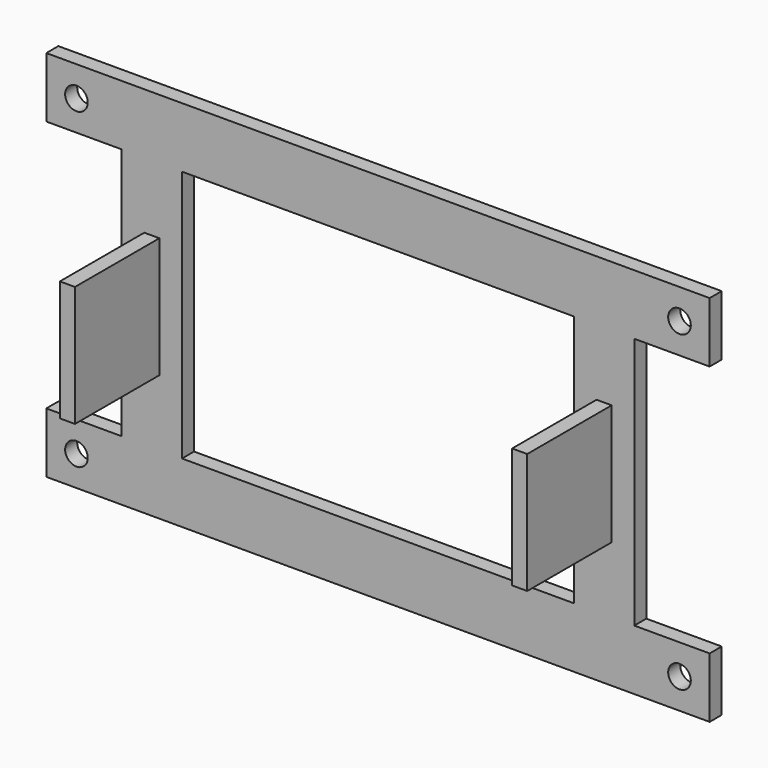
from build123d import *

# Parameters (mm, degrees)
F0_W     = 50.8
F0_H     = 212.725
F0_W_2   = 12.7
F0_H_2   = 101.6
F1_DEPTH = 12.7
F2_D     = 19.05
F3_DEPTH = 101.6


with BuildPart() as f1:
    # F0 (on Front) → F1 (new body)
    with BuildSketch(Plane.XZ):
        Polygon((215.9, 50.5107097983), (279.4, 50.5107097983), (279.4, 101.3107097983), (-279.4, 101.3107097983), (-279.4, 50.5107097983), (-215.9, 50.5107097983), (-165.1, 50.5107097983), (165.1, 50.5107097983), align=None)
        with Locations((190.5, -55.8517902017)):
            Rectangle(F0_W, F0_H)
        with Locations((190.5, -55.8517902017)):
            Rectangle(F0_W_2, F0_H_2, mode=Mode.SUBTRACT)
        Polygon((279.4, -162.2142902017), (215.9, -162.2142902017), (165.1, -162.2142902017), (-165.1, -162.2142902017), (-215.9, -162.2142902017), (-279.4, -162.2142902017), (-279.4, -213.0142902017), (279.4, -213.0142902017), align=None)
        with Locations((-190.5, -55.8517902017)):
            Rectangle(F0_W, F0_H)
        with Locations((-190.5, -55.8517902017)):
            Rectangle(F0_W_2, F0_H_2, mode=Mode.SUBTRACT)
    extrude(amount=F1_DEPTH)

    # F2 (through all)
    with Locations(Plane(origin=(0, 0, 0), x_dir=(1, 0, 0), z_dir=(0, 1, 0))):
        with Locations((-254, -75.9107097983), (254, -75.9107097983), (254, 187.6142902017), (-254, 187.6142902017)):
            Hole(F2_D / 2)


with BuildPart() as f3:
    # F0 (on Front) → F3 (new body)
    with BuildSketch(Plane.XZ):
        with Locations((190.5, -55.8517902017)):
            Rectangle(F0_W_2, F0_H_2)
    extrude(amount=F3_DEPTH)


with BuildPart() as f3b:
    # F0 (on Front) → F3, piece 2 (new body)
    with BuildSketch(Plane.XZ):
        with Locations((-190.5, -55.8517902017)):
            Rectangle(F0_W_2, F0_H_2)
    extrude(amount=F3_DEPTH)


solid = Compound([f1.part, f3.part, f3b.part])
